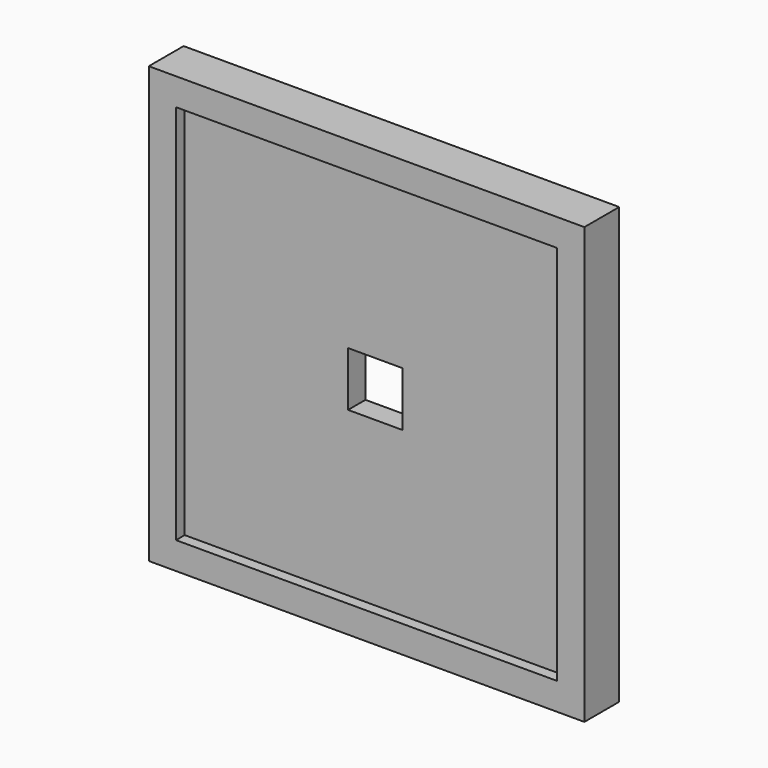
from build123d import *

# Parameters (mm, degrees)
F0_W     = 101.6
F0_H     = 101.6
F1_DEPTH = 10.16
F2_W     = 88.9
F2_H     = 88.9
F3_DEPTH = 2.54
F4_W     = 50.8
F4_H     = 50.8
F5_DEPTH = 2.54
F6_W     = 12.7
F6_H     = 12.7
F7_DEPTH = 25.4


with BuildPart() as f1:
    # F0 (on Front) → F1 (new body)
    with BuildSketch(Plane.XZ):
        with Locations((4.06957, 6.01474)):
            Rectangle(F0_W, F0_H)
    extrude(amount=F1_DEPTH)

    # F2 (on face) → F3 (cut)
    with BuildSketch(Plane.XZ.offset(10.16)):
        with Locations((4.06957, 6.01474)):
            Rectangle(F2_W, F2_H)
    extrude(amount=-F3_DEPTH, mode=Mode.SUBTRACT)

    # F4 (on face) → F5 (cut)
    with BuildSketch(Plane(origin=(0, 0, 0), x_dir=(-1, 0, 0), z_dir=(0, 1, 0))):
        with Locations((-4.06957, 6.01474)):
            Rectangle(F4_W, F4_H)
    extrude(amount=-F5_DEPTH, mode=Mode.SUBTRACT)

    # F6 (on face) → F7 (cut)
    with BuildSketch(Plane(origin=(0, -2.54, 0), x_dir=(-1, 0, 0), z_dir=(0, 1, 0))):
        with Locations((-4.06957, 6.01474)):
            Rectangle(F6_W, F6_H)
    extrude(amount=-F7_DEPTH, mode=Mode.SUBTRACT)


solid = f1.part
